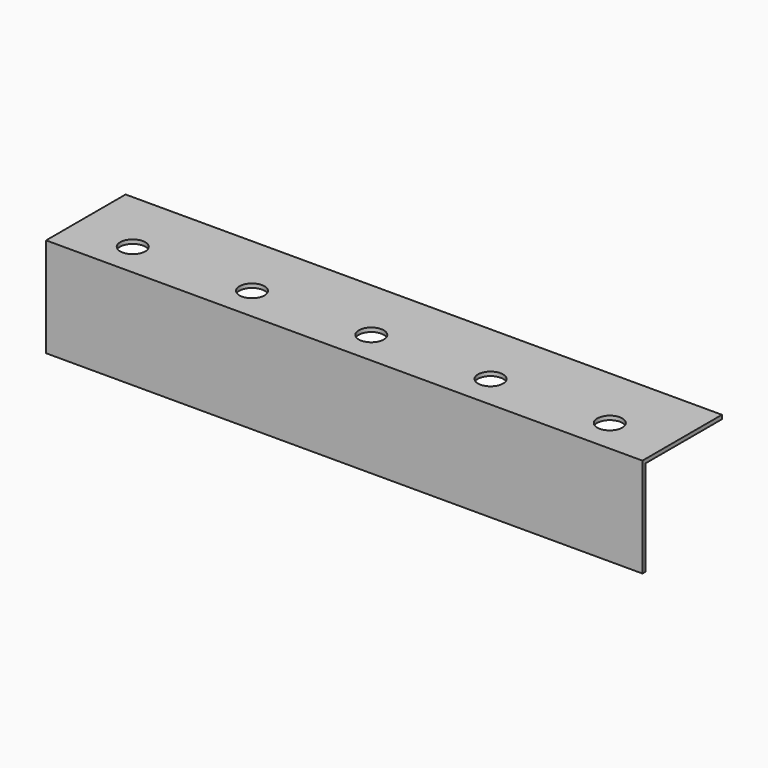
from build123d import *

# Parameters (mm, degrees)
F0_W     = 1
F0_H     = 24
F0_H_2   = 1
F0_W_2   = 24
F1_DEPTH = 150
F2_R     = 3.15
F3_DEPTH = 1


with BuildPart() as f1:
    # F0 (on Right) → F1 (new body)
    with BuildSketch(Plane.YZ):
        with Locations((-4.966528, 10.346573)):
            Rectangle(F0_W, F0_H)
        with Locations((-4.966528, 22.846573)):
            Rectangle(F0_W, F0_H_2)
        with Locations((7.533472, 22.846573)):
            Rectangle(F0_W_2, F0_H_2)
    extrude(amount=F1_DEPTH)

    # F2 (on face) → F3 (cut)
    with BuildSketch(Plane.XY.offset(23.346573)):
        with Locations((15, 3.033472)):
            Circle(F2_R)
        with Locations((45, 3.033472)):
            Circle(F2_R)
        with Locations((75, 3.033472)):
            Circle(F2_R)
        with Locations((105, 3.033472)):
            Circle(F2_R)
        with Locations((135, 3.033472)):
            Circle(F2_R)
    extrude(amount=-F3_DEPTH, mode=Mode.SUBTRACT)


solid = f1.part
